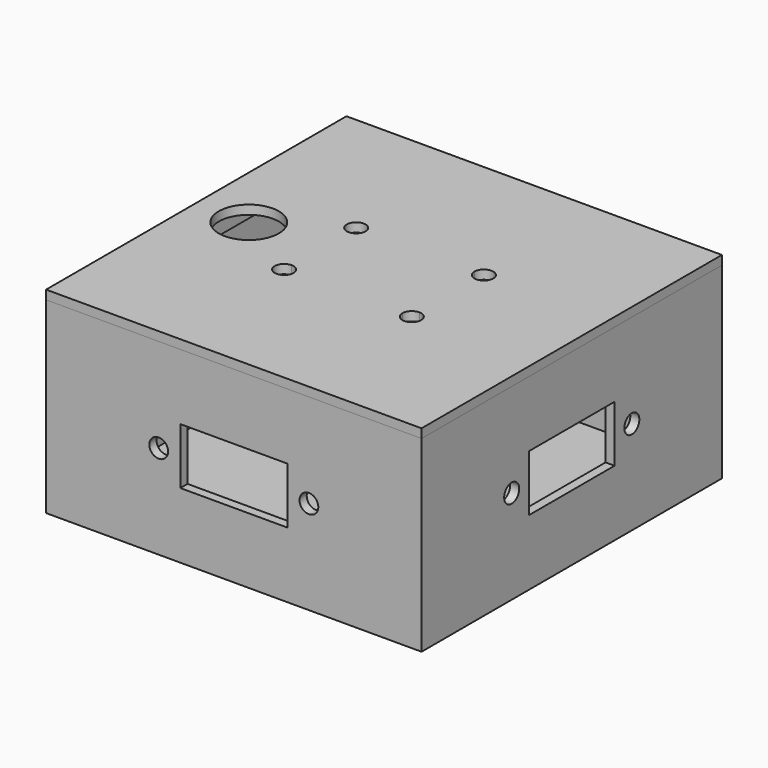
from build123d import *

# Parameters (mm, degrees)
F0_W      = 63.5
F0_H      = 63.5
F1_DEPTH  = 31.75
F2_W      = 60.452
F2_H      = 60.452
F3_DEPTH  = 30.226
F4_W      = 9.04875
F4_H      = 9.525
F4_R      = 1.5875
F5_DEPTH  = 76.2
F6_W      = 9.04875
F6_H      = 9.525
F6_R      = 1.5875
F7_DEPTH  = 25.4
F8_W      = 59.944
F8_H      = 59.944
F8_W_2    = 56.896
F8_H_2    = 56.896
F9_DEPTH  = 2.54
F10_W     = 63.5
F10_H     = 63.5
F11_DEPTH = 1.524
F12_R     = 5.08
F13_DEPTH = 25.4


with BuildPart() as f1:
    # F0 (on Top) → F1 (new body)
    with BuildSketch(Plane.XY):
        Rectangle(F0_W, F0_H)
    extrude(amount=F1_DEPTH)

    # F2 (on face) → F3 (cut)
    with BuildSketch(Plane.XY.offset(31.75)):
        Rectangle(F2_W, F2_H)
    extrude(amount=-F3_DEPTH, mode=Mode.SUBTRACT)

    # F4 (on face) → F5 (cut)
    with BuildSketch(Plane.XZ.offset(31.75)):
        with Locations((-4.524375, 15.875)):
            Rectangle(F4_W, F4_H)
        with Locations((4.524375, 15.875)):
            Rectangle(F4_W, F4_H)
        with Locations((-12.7, 15.875)):
            Circle(F4_R)
        with Locations((12.7, 15.875)):
            Circle(F4_R)
    extrude(amount=-F5_DEPTH, mode=Mode.SUBTRACT)

    # F6 (on face) → F7 (cut)
    with BuildSketch(Plane.YZ.offset(31.75)):
        with Locations((-4.524375, 15.875)):
            Rectangle(F6_W, F6_H)
        with Locations((4.524375, 15.875)):
            Rectangle(F6_W, F6_H)
        with Locations((-12.7, 15.875)):
            Circle(F6_R)
        with Locations((12.7, 15.875)):
            Circle(F6_R)
    extrude(amount=-F7_DEPTH, mode=Mode.SUBTRACT)


with BuildPart() as f9:
    # F8 (on face) → F9 (new body)
    with BuildSketch(Plane.XY.offset(31.75)):
        Rectangle(F8_W, F8_H)
        Rectangle(F8_W_2, F8_H_2, mode=Mode.SUBTRACT)
    extrude(amount=-F9_DEPTH)

    # F10 (on face) → F11 (join)
    with BuildSketch(Plane.XY.offset(31.75)):
        Rectangle(F10_W, F10_H)
    extrude(amount=F11_DEPTH)

    # F12 (on face) → F13 (cut)
    with BuildSketch(Plane.XY.offset(33.274)):
        with BuildLine():
            Line((10.795, 7.62), (9.2075, 7.62))
            ThreePointArc((9.2075, 7.62), (9.6724679849, 6.4974679849), (10.795, 6.0325))
            Line((10.795, 6.0325), (10.795, 7.62))
        make_face()
        with BuildLine():
            ThreePointArc((12.3825, 7.62), (10.795, 9.2075), (9.2075, 7.62))
            Line((9.2075, 7.62), (10.795, 7.62))
            Line((10.795, 7.62), (10.795, 6.0325))
            ThreePointArc((10.795, 6.0325), (11.9175320151, 6.4974679849), (12.3825, 7.62))
        make_face()
        with BuildLine():
            Line((-10.795, 7.62), (-9.2075, 7.62))
            ThreePointArc((-9.2075, 7.62), (-11.9175320151, 8.7425320151), (-10.795, 6.0325))
            Line((-10.795, 6.0325), (-10.795, 7.62))
        make_face()
        with BuildLine():
            ThreePointArc((-10.795, 6.0325), (-9.6724679849, 6.4974679849), (-9.2075, 7.62))
            Line((-9.2075, 7.62), (-10.795, 7.62))
            Line((-10.795, 7.62), (-10.795, 6.0325))
        make_face()
        with BuildLine():
            Line((10.795, -7.62), (10.795, -6.0325))
            ThreePointArc((10.795, -6.0325), (9.6724679849, -6.4974679849), (9.2075, -7.62))
            Line((9.2075, -7.62), (10.795, -7.62))
        make_face()
        with BuildLine():
            ThreePointArc((12.3825, -7.62), (11.9175320151, -6.4974679849), (10.795, -6.0325))
            Line((10.795, -6.0325), (10.795, -7.62))
            Line((10.795, -7.62), (9.2075, -7.62))
            ThreePointArc((9.2075, -7.62), (10.795, -9.2075), (12.3825, -7.62))
        make_face()
        with BuildLine():
            ThreePointArc((-9.2075, -7.62), (-9.6724679849, -6.4974679849), (-10.795, -6.0325))
            Line((-10.795, -6.0325), (-10.795, -7.62))
            Line((-10.795, -7.62), (-9.2075, -7.62))
        make_face()
        with BuildLine():
            Line((-10.795, -7.62), (-10.795, -6.0325))
            ThreePointArc((-10.795, -6.0325), (-11.9175320151, -8.7425320151), (-9.2075, -7.62))
            Line((-9.2075, -7.62), (-10.795, -7.62))
        make_face()
        with Locations((-22.86, 0)):
            Circle(F12_R)
    extrude(amount=-F13_DEPTH, mode=Mode.SUBTRACT)


solid = Compound([f1.part, f9.part])
